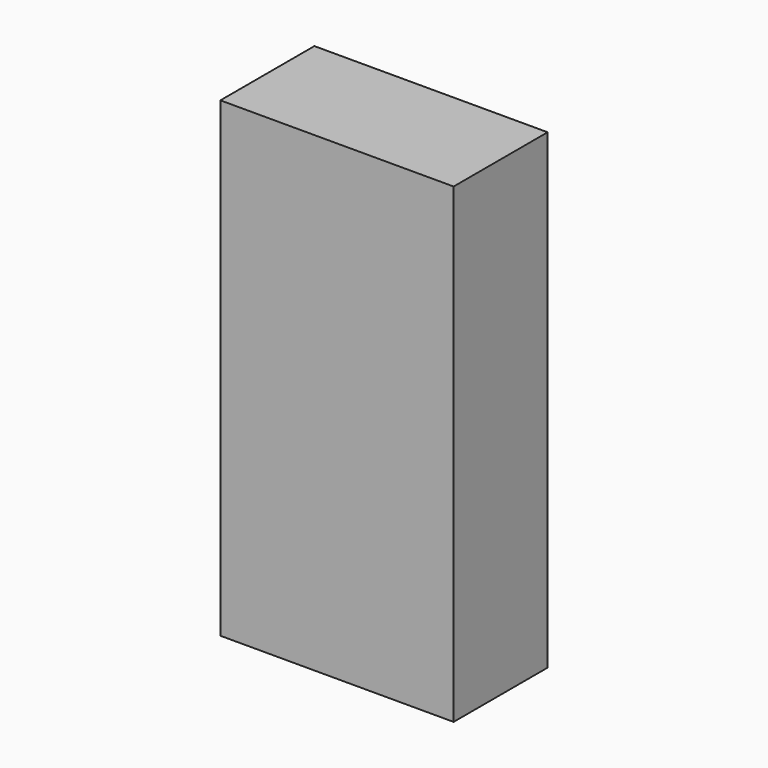
from build123d import *

# Parameters (mm, degrees)
F0_W     = 61.854891
F0_H     = 31.1621
F1_DEPTH = 25
F2_DEPTH = 100


with BuildPart() as f1:
    # F0 (on Top) → F1 (new body)
    with BuildSketch(Plane.XY):
        with Locations((-30.927445, -15.58105)):
            Rectangle(F0_W, F0_H)
    extrude(amount=F1_DEPTH)

    # F0 (on Top) → F2 (join)
    with BuildSketch(Plane.XY):
        with Locations((-30.927445, -15.58105)):
            Rectangle(F0_W, F0_H)
    extrude(amount=-F2_DEPTH)


solid = f1.part
